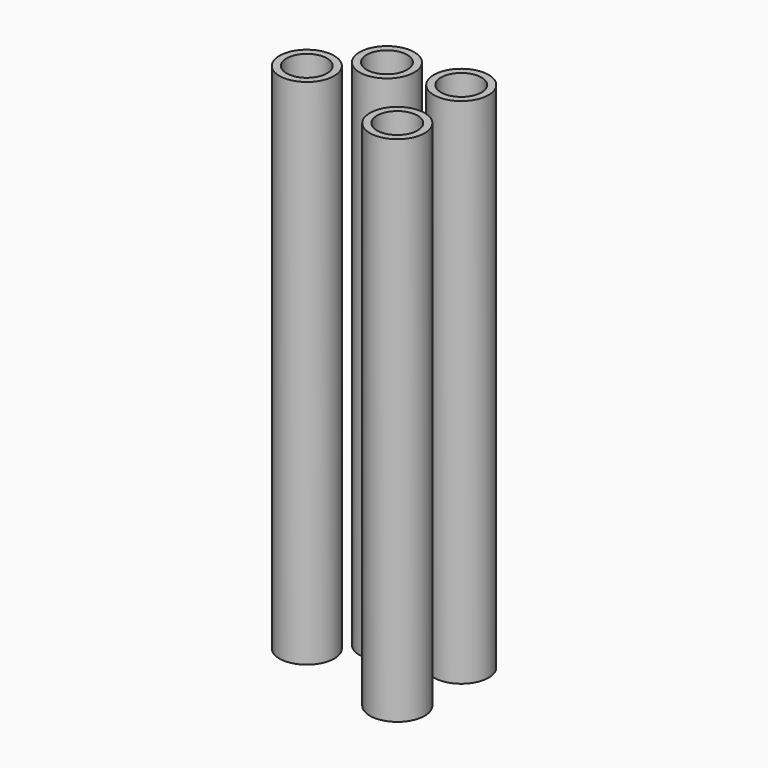
from build123d import *

# Parameters (mm, degrees)
F0_R     = 10.671195
F0_R_2   = 7.902929
F1_DEPTH = 200
F2_R     = 10.671195
F2_R_2   = 7.902929
F3_DEPTH = 200
F4_DEPTH = 200
F5_DEPTH = 200


with BuildPart() as f1:
    # F0 (on Top) → F1 (new body)
    with BuildSketch(Plane.XY):
        with Locations((19.360263, 17.272713)):
            Circle(F0_R)
        with Locations((19.360263, 17.272713)):
            Circle(F0_R_2, mode=Mode.SUBTRACT)
    extrude(amount=F1_DEPTH)


with BuildPart() as f3:
    # F2 (on Top) → F3 (new body)
    with BuildSketch(Plane.XY):
        with Locations((19.856874, -14.518355)):
            Circle(F2_R)
        with Locations((19.856874, -14.518355)):
            Circle(F2_R_2, mode=Mode.SUBTRACT)
    extrude(amount=F3_DEPTH)


with BuildPart() as f4:
    # F2 (on Top) → F4 (new body)
    with BuildSketch(Plane.XY):
        with Locations((-25.216391, -2.277479)):
            Circle(F2_R)
        with Locations((-25.216391, -2.277479)):
            Circle(F2_R_2, mode=Mode.SUBTRACT)
    extrude(amount=F4_DEPTH)


with BuildPart() as f5:
    # F2 (on Top) → F5 (new body)
    with BuildSketch(Plane.XY):
        with Locations((-7.640985, 14.800491)):
            Circle(F2_R)
        with Locations((-7.640985, 14.800491)):
            Circle(F2_R_2, mode=Mode.SUBTRACT)
    extrude(amount=F5_DEPTH)


solid = Compound([f1.part, f3.part, f4.part, f5.part])
